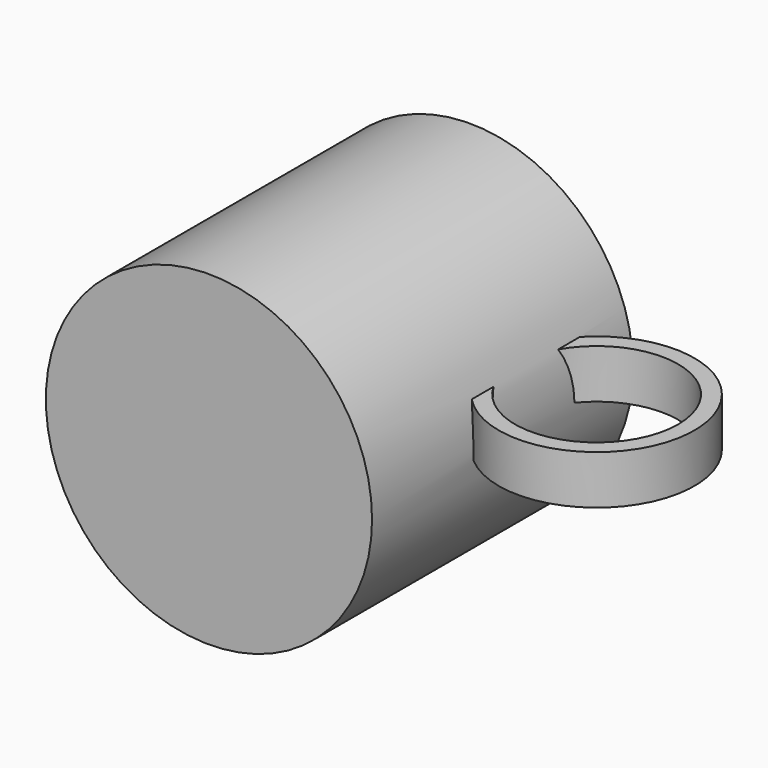
from build123d import *

# Parameters (mm, degrees)
F0_R     = 63.5
F1_DEPTH = 127
F2_R     = 50.8
F3_DEPTH = 114.3
F6_R     = 38.1
F6_R_2   = 31.75
F7_DEPTH = 19.05


with BuildPart() as f1:
    # F0 (on Front) → F1 (new body)
    with BuildSketch(Plane.XZ):
        Circle(F0_R)
    extrude(amount=F1_DEPTH)

    # F2 (on Front) → F3 (cut)
    with BuildSketch(Plane.XZ):
        Circle(F2_R)
    extrude(amount=F3_DEPTH, mode=Mode.SUBTRACT)

    # F6 (on Top) → F7 (join)
    with BuildSketch(Plane.XY):
        with Locations((88.1370286467, -48.5165871287)):
            Circle(F6_R)
        with Locations((88.1370286467, -48.5165871287)):
            Circle(F6_R_2, mode=Mode.SUBTRACT)
    extrude(amount=F7_DEPTH)


solid = f1.part
